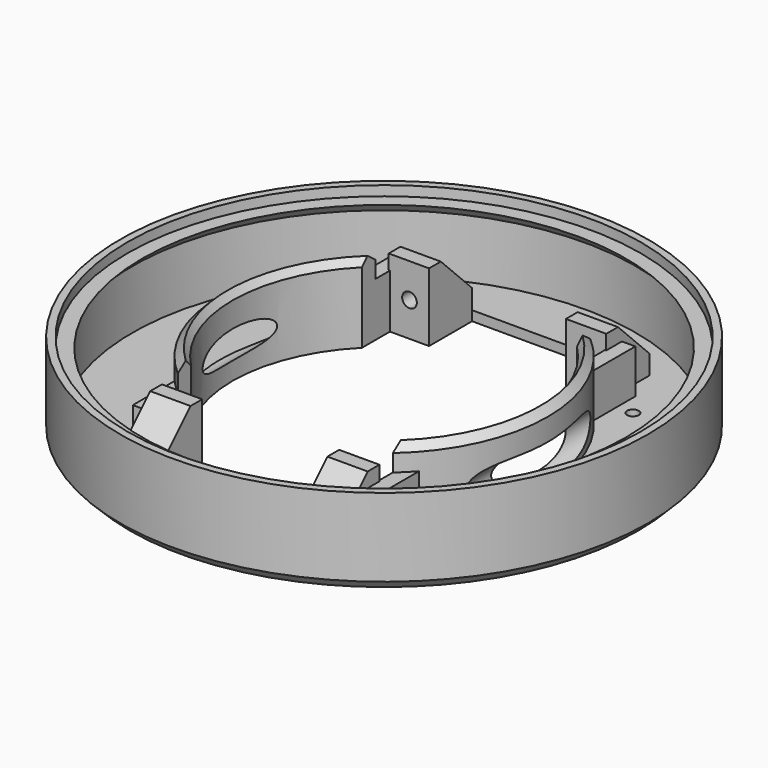
from build123d import *

# Parameters (mm, degrees)
SKETCH001_W                   = 44
SKETCH001_H                   = 15
POCKET_DEPTH                  = 325.585135
PAD_DEPTH                     = 22.25
SKETCH003_W                   = 28
SKETCH003_H                   = 15
POCKET001_DEPTH               = 325.585135
SKETCH004_R                   = 1.5
POCKET002_DEPTH               = 45
SKETCH004_MIRRORED014_2_R     = 1.5
POCKET002_MIRRORED014_2_DEPTH = 45
SKETCH006_R                   = 1.2
POCKET004_DEPTH               = 325.585135
SKETCH006_MIRRORED016_2_R     = 1.2
POCKET004_MIRRORED016_2_DEPTH = 325.585135
SKETCH007_W                   = 3
SKETCH007_H                   = 11
PAD001_DEPTH                  = 11
SKETCH007_MIRRORED011_2_W     = 3
SKETCH007_MIRRORED011_2_H     = 11
PAD001_MIRRORED011_2_DEPTH    = 11
CYLINDER_R                    = 3.5
CYLINDER_DEPTH                = 33
CHAMFER_SIZE                  = 2


with BuildPart() as part:
    # Sketch → Revolution (revolve)
    with BuildSketch(Plane.XZ):
        Polygon((31, 0), (31, 14.5), (32, 16), (33.5, 14.5), (33.5, 2), (51.5, 2), (51.5, 14), (49.5, 16), (52.5, 16), (52.5, 18), (54, 18), (54, 0), align=None)
    revolve(axis=Axis((0, 0, 0), (0, 0, 1)))

    # Sketch001 → Pocket (cut, through all)
    with BuildSketch(Plane.XY):
        with Locations((0, 28.5)):
            Rectangle(SKETCH001_W, SKETCH001_H)
    pocket = extrude(amount=POCKET_DEPTH, mode=Mode.SUBTRACT)

    # Mirrored: Pocket across XZ
    add(pocket.mirror(Plane.XZ), mode=Mode.SUBTRACT)

    # Sketch002 → Pad (join, symmetric)
    with BuildSketch(Plane.YZ):
        Polygon((-40, 0), (-40, 6), (-32, 14), (-29, 14), (-29, 0), align=None)
    pad = extrude(amount=PAD_DEPTH, both=True)

    # Mirrored001: Pad across XZ
    add(pad.mirror(Plane.XZ))

    # Sketch003 → Pocket001 (cut, through all)
    with BuildSketch(Plane.XY):
        with Locations((0, 32.5)):
            Rectangle(SKETCH003_W, SKETCH003_H)
    pocket001 = extrude(amount=POCKET001_DEPTH, mode=Mode.SUBTRACT)

    # Mirrored002: Pocket001 across XZ
    add(pocket001.mirror(Plane.XZ), mode=Mode.SUBTRACT)

    # Sketch004 → Pocket002 (cut)
    with BuildSketch(Plane.XZ):
        with Locations((-18, 7)):
            Circle(SKETCH004_R)
    pocket002 = extrude(amount=-POCKET002_DEPTH, mode=Mode.SUBTRACT)

    # Sketch004 Mirrored014 2 → Pocket002 Mirrored014 2 (cut)
    with BuildSketch(Plane(origin=(0, 0, 0), x_dir=(-1, 0, 0), z_dir=(0, 1, 0))):
        with Locations((-18, 7)):
            Circle(SKETCH004_MIRRORED014_2_R)
    pocket002_mirrored014_2 = extrude(amount=POCKET002_MIRRORED014_2_DEPTH, mode=Mode.SUBTRACT)

    # Mirrored015: Pocket002, Pocket002 Mirrored014 2 across XZ
    add(pocket002.mirror(Plane.XZ), mode=Mode.SUBTRACT)
    add(pocket002_mirrored014_2.mirror(Plane.XZ), mode=Mode.SUBTRACT)

    # Sketch006 → Pocket004 (cut, through all)
    with BuildSketch(Plane.XY):
        with Locations((28.284271, 28.284271)):
            Circle(SKETCH006_R)
        with Locations((33.234019, 33.234019)):
            Circle(SKETCH006_R)
    pocket004 = extrude(amount=POCKET004_DEPTH, mode=Mode.SUBTRACT)

    # Sketch006 Mirrored016 2 → Pocket004 Mirrored016 2 (cut, through all)
    with BuildSketch(Plane(origin=(0, 0, 0), x_dir=(-1, 0, 0), z_dir=(0, 0, -1))):
        with Locations((28.284271, 28.284271)):
            Circle(SKETCH006_MIRRORED016_2_R)
        with Locations((33.234019, 33.234019)):
            Circle(SKETCH006_MIRRORED016_2_R)
    pocket004_mirrored016_2 = extrude(amount=-POCKET004_MIRRORED016_2_DEPTH, mode=Mode.SUBTRACT)

    # Mirrored017: Pocket004, Pocket004 Mirrored016 2 across XZ
    add(pocket004.mirror(Plane.XZ), mode=Mode.SUBTRACT)
    add(pocket004_mirrored016_2.mirror(Plane.XZ), mode=Mode.SUBTRACT)

    # Sketch007 → Pad001 (join)
    with BuildSketch(Plane.XY):
        with Locations((23.5, 27.5)):
            Rectangle(SKETCH007_W, SKETCH007_H)
    pad001 = extrude(amount=PAD001_DEPTH)

    # Sketch007 Mirrored011 2 → Pad001 Mirrored011 2 (add)
    with BuildSketch(Plane(origin=(0, 0, 0), x_dir=(-1, 0, 0), z_dir=(0, 0, -1))):
        with Locations((23.5, 27.5)):
            Rectangle(SKETCH007_MIRRORED011_2_W, SKETCH007_MIRRORED011_2_H)
    pad001_mirrored011_2 = extrude(amount=-PAD001_MIRRORED011_2_DEPTH)

    # Mirrored012: Pad001, Pad001 Mirrored011 2 across XZ
    add(pad001.mirror(Plane.XZ))
    add(pad001_mirrored011_2.mirror(Plane.XZ))

    # Cylinder → Cylinder (cut)
    with BuildSketch(Plane(origin=(33, 16, 6.5), x_dir=(1, 0, 0), z_dir=(0, -1, 0))):
        Circle(CYLINDER_R)
    cylinder = extrude(amount=CYLINDER_DEPTH, mode=Mode.SUBTRACT)

    # Mirrored013: Cylinder across YZ
    add(cylinder.mirror(Plane.YZ), mode=Mode.SUBTRACT)

    # Chamfer
    chamfer_edges = [part.edges().sort_by_distance(p)[0] for p in [
        (-54, 0, 0),
    ]]
    chamfer(chamfer_edges, length=CHAMFER_SIZE)


solid = part.part
